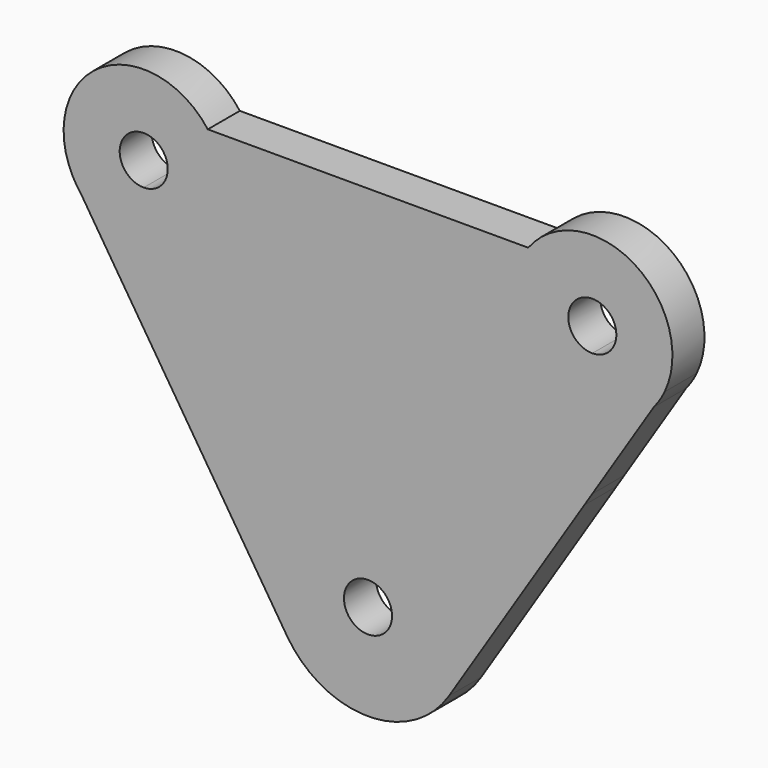
from build123d import *

# Parameters (mm, degrees)
F1_DEPTH = 7.9375


with BuildPart() as f1:
    # F0 (on Front) → F1 (new body)
    with BuildSketch(Plane.XZ):
        with BuildLine():
            ThreePointArc((-103.002884, 24.461359), (-102.274693, 23.198204), (-101.433682, 22.007185))
            Line((-101.433682, 22.007185), (-103.002884, 24.461359))
        make_face()
        with BuildLine():
            Line((14.342058, 24.944047), (12.210866, 21.605525))
            ThreePointArc((12.210866, 21.605525), (13.38099, 23.20806), (14.342058, 24.944047))
        make_face()
        with BuildLine():
            Line((-28.392813, -42.000328), (-1.58132, 0))
            Line((-1.58132, 0), (-87.362259, 0))
            Line((-87.362259, 0), (-67.061267, -31.75))
            Line((-67.061267, -31.75), (-60.499631, -42.012155))
            ThreePointArc((-60.499631, -42.012155), (-44.442983, -50.799999), (-28.392813, -42.000328))
        make_face()
        with BuildLine():
            ThreePointArc((-39.6875, -31.75), (-44.45, -36.5125), (-49.2125, -31.75))
            ThreePointArc((-49.2125, -31.75), (-44.45, -26.9875), (-39.6875, -31.75))
        make_face(mode=Mode.SUBTRACT)
        with BuildLine():
            Line((-87.362259, 0), (-1.58132, 0))
            Line((-1.58132, 0), (0, 2.477146))
            Line((0, 2.477146), (12.210866, 21.605525))
            Line((12.210866, 21.605525), (14.342058, 24.944047))
            ThreePointArc((14.342058, 24.944047), (8.206649, 45.339207), (-12.7, 41.275))
            Line((-12.7, 41.275), (-76.2, 41.275))
            ThreePointArc((-76.2, 41.275), (-97.336033, 45.19801), (-103.002884, 24.461359))
            Line((-103.002884, 24.461359), (-101.433682, 22.007185))
            Line((-101.433682, 22.007185), (-88.9, 2.40497))
            Line((-88.9, 2.40497), (-87.362259, 0))
        make_face()
        with BuildLine():
            ThreePointArc((-84.1375, 31.75), (-85.532404, 28.382404), (-88.9, 26.9875))
            ThreePointArc((-88.9, 26.9875), (-92.267596, 35.117596), (-84.1375, 31.75))
        make_face(mode=Mode.SUBTRACT)
        with BuildLine():
            ThreePointArc((4.7625, 31.75), (3.367596, 28.382404), (0, 26.9875))
            ThreePointArc((0, 26.9875), (-4.7625, 31.75), (0, 36.5125))
            ThreePointArc((0, 36.5125), (3.367596, 35.117596), (4.7625, 31.75))
        make_face(mode=Mode.SUBTRACT)
    extrude(amount=F1_DEPTH)


solid = f1.part
